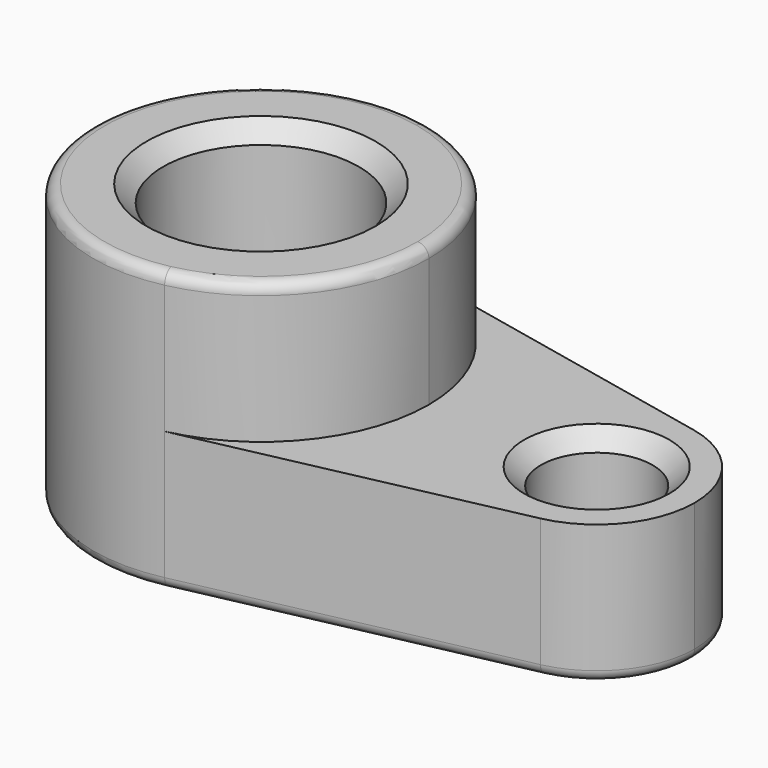
from build123d import *

# Parameters (mm, degrees)
F0_R     = 17.5
F0_R_2   = 10
F1_DEPTH = 25
F2_DEPTH = 50
F3_R     = 2
F4_SIZE  = 3


with BuildPart() as f1:
    # F0 (on Top) → F1 (new body)
    with BuildSketch(Plane.XY):
        with BuildLine():
            ThreePointArc((6.25, -29.341736), (23.318448, -18.874586), (30, 0))
            ThreePointArc((30, 0), (23.318448, 18.874586), (6.25, 29.341736))
            ThreePointArc((6.25, 29.341736), (-30, 0), (6.25, -29.341736))
        make_face()
        Circle(F0_R, mode=Mode.SUBTRACT)
        with BuildLine():
            ThreePointArc((6.25, 29.341736), (23.318448, 18.874586), (30, 0))
            ThreePointArc((30, 0), (23.318448, -18.874586), (6.25, -29.341736))
            Line((6.25, -29.341736), (63.645833, -17.116013))
            ThreePointArc((63.645833, -17.116013), (42.5, 0), (63.645833, 17.116013))
            Line((63.645833, 17.116013), (6.25, 29.341736))
        make_face()
        with BuildLine():
            ThreePointArc((77.5, 0), (73.602428, 11.010175), (63.645833, 17.116013))
            ThreePointArc((63.645833, 17.116013), (42.5, 0), (63.645833, -17.116013))
            ThreePointArc((63.645833, -17.116013), (73.602428, -11.010175), (77.5, 0))
        make_face()
        with Locations((60, 0)):
            Circle(F0_R_2, mode=Mode.SUBTRACT)
    extrude(amount=F1_DEPTH)

    # F0 (on Top) → F2 (join)
    with BuildSketch(Plane.XY):
        with BuildLine():
            ThreePointArc((6.25, -29.341736), (23.318448, -18.874586), (30, 0))
            ThreePointArc((30, 0), (23.318448, 18.874586), (6.25, 29.341736))
            ThreePointArc((6.25, 29.341736), (-30, 0), (6.25, -29.341736))
        make_face()
        Circle(F0_R, mode=Mode.SUBTRACT)
    extrude(amount=F2_DEPTH)

    # F3
    f3_edges = [f1.edges().sort_by_distance(p)[0] for p in [
        (-6.25, 29.341736, 50),
        (34.947917, -23.228875, 0),
        (34.947917, 23.228875, 0),
    ]]
    fillet(f3_edges, radius=F3_R)

    # F4
    f4_edges = [f1.edges().sort_by_distance(p)[0] for p in [
        (-17.5, 0, 50),
        (50, 0, 25),
    ]]
    chamfer(f4_edges, length=F4_SIZE)


solid = f1.part
